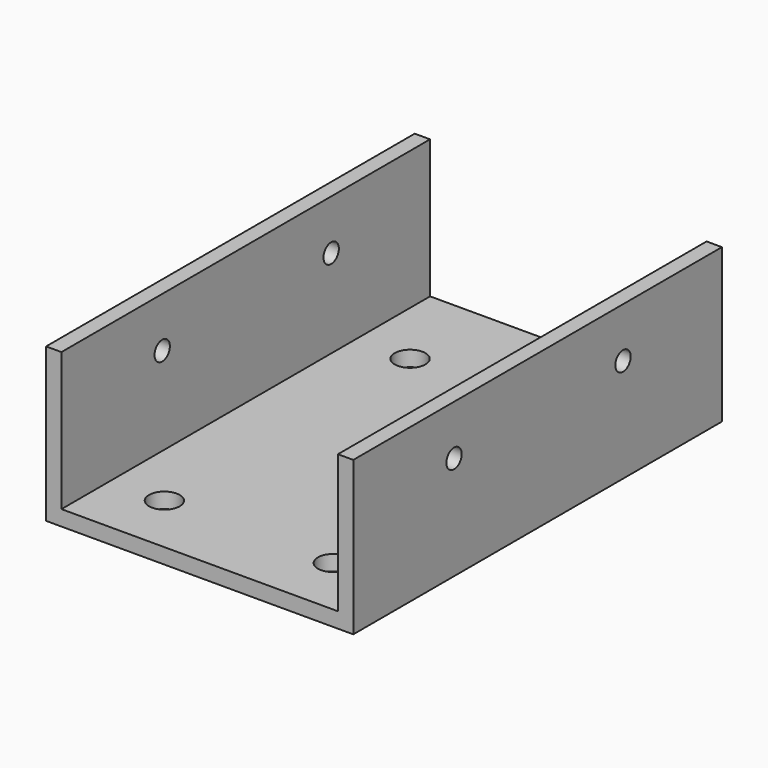
from build123d import *

# Parameters (mm, degrees)
CYLINDER_R           = 1.25
CYLINDER_DEPTH       = 2
CYLINDER_PITCH_ANGLE = 90
ARRAY_X_COUNT        = 2
ARRAY_X_PITCH        = 38
ARRAY_Y_COUNT        = 2
ARRAY_Y_PITCH        = 27.5
CYLINDER001_R        = 2
CYLINDER001_DEPTH    = 2
ARRAY001_X_COUNT     = 2
ARRAY001_X_PITCH     = 22
ARRAY001_Y_COUNT     = 2
ARRAY001_Y_PITCH     = 40
BOX001_W             = 2
BOX001_H             = 60
BOX001_DEPTH         = 20
BOX_W                = 40
BOX_H                = 60
BOX_DEPTH            = 2
BOX002_W             = 2
BOX002_H             = 60
BOX002_DEPTH         = 20


with BuildPart() as array:
    # Cylinder → Cylinder (new body)
    with BuildSketch(Plane.XY):
        Circle(CYLINDER_R)
    extrude(amount=CYLINDER_DEPTH)


with BuildPart() as array_1:
    # Cylinder pitch: moved
    add(array.part.rotate(Axis((0, 0, 0), (0, 1, 0)), CYLINDER_PITCH_ANGLE))


with BuildPart() as array_2:
    # Cylinder placement: moved
    add(array_1.part.moved(Location((0, 16.4, 13.5))))

    # Array X: Array ×2


with BuildPart() as array_3:
    add(array_2.part)
    with Locations(*[(i * ARRAY_X_PITCH, 0, 0) for i in range(1, ARRAY_X_COUNT)]):
        add(array_2.part)

    # Array Y: Array ×2


with BuildPart() as array_4:
    add(array_3.part)
    with Locations(*[(0, i * ARRAY_Y_PITCH, 0) for i in range(1, ARRAY_Y_COUNT)]):
        add(array_3.part)


with BuildPart() as array_5:
    # Array placement: moved
    add(array_4.part.moved(Location((2, 40, 0))))


with BuildPart() as array001:
    # Cylinder001 → Cylinder001 (new body)
    with BuildSketch(Plane(origin=(11, 48, 0), x_dir=(1, 0, 0), z_dir=(0, 0, 1))):
        Circle(CYLINDER001_R)
    extrude(amount=CYLINDER001_DEPTH)

    # Array001 X: Array001 ×2


with BuildPart() as array001_1:
    add(array001.part)
    with Locations(*[(i * ARRAY001_X_PITCH, 0, 0) for i in range(1, ARRAY001_X_COUNT)]):
        add(array001.part)

    # Array001 Y: Array001 ×2


with BuildPart() as array001_2:
    add(array001_1.part)
    with Locations(*[(0, i * ARRAY001_Y_PITCH, 0) for i in range(1, ARRAY001_Y_COUNT)]):
        add(array001_1.part)


with BuildPart() as cubo001:
    # Box001 → Box001 (new body)
    with BuildSketch(Plane.XY):
        with Locations((1, 30)):
            Rectangle(BOX001_W, BOX001_H)
    extrude(amount=BOX001_DEPTH)


with BuildPart() as cubo:
    # Box → Box (new body)
    with BuildSketch(Plane.XY):
        with Locations((20, 30)):
            Rectangle(BOX_W, BOX_H)
    extrude(amount=BOX_DEPTH)


with BuildPart() as cut002:
    # Box002 → Box002 (new body)
    with BuildSketch(Plane(origin=(38, 0, 0), x_dir=(1, 0, 0), z_dir=(0, 0, 1))):
        with Locations((1, 30)):
            Rectangle(BOX002_W, BOX002_H)
    extrude(amount=BOX002_DEPTH)

    # Fusion: union Cubo001, Cubo
    add(cubo001.part)
    add(cubo.part)

    # Cut: cut Array
    add(array_5.part, mode=Mode.SUBTRACT)


with BuildPart() as cut002_1:
    # Cut placement: moved
    add(cut002.part.moved(Location((2, 40, 0))))

    # Cut001: cut Array001
    add(array001_2.part, mode=Mode.SUBTRACT)

    # Cut002: cut Array
    add(array_5.part, mode=Mode.SUBTRACT)


solid = cut002_1.part
